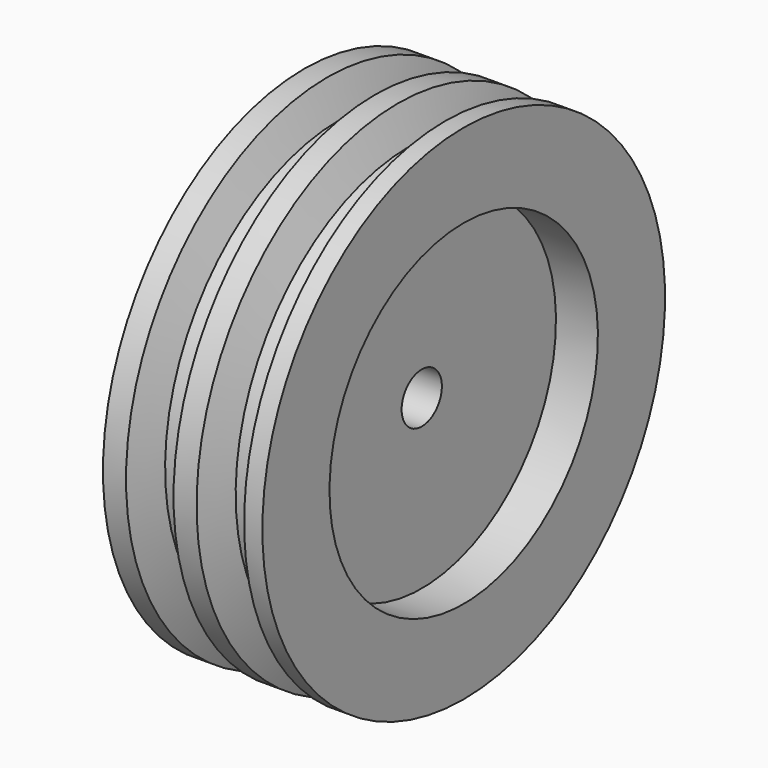
from build123d import *


with BuildPart() as f1:
    # F0 (on Front) → F1 (revolve)
    with BuildSketch(Plane.XZ):
        Polygon((-15.235286, 40), (-15.235286, 6), (2.764714, 6), (2.764714, 40), (12.764714, 40), (12.764714, 60), (8.411762, 60), (5.5, 52), (0, 52), (-2.911762, 60), (-8.411762, 60), (-11.323524, 52), (-16.823524, 52), (-19.735286, 60), (-25.235286, 60), (-25.235286, 40), align=None)
    revolve(axis=Axis((11.867218, 0, 0), (1, 0, 0)))


solid = f1.part
